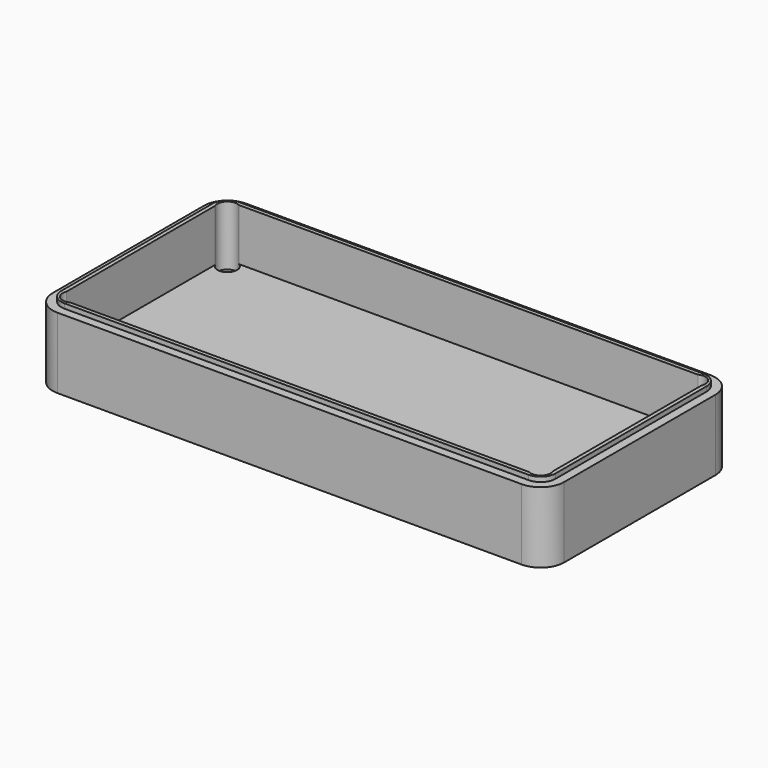
from build123d import *

# Parameters (mm, degrees)
PAD002_DEPTH    = 9
POCKET002_DEPTH = 6
PAD003_DEPTH    = 0.6
SKETCH007_R     = 2
POCKET003_DEPTH = 2
SKETCH008_R     = 1.25
POCKET004_DEPTH = 10
PAD004_DEPTH    = 3


with BuildPart() as part:
    # Sketch004 → Pad002 (new body)
    with BuildSketch(Plane.XY):
        with BuildLine():
            Line((0, 27), (0, 3))
            ThreePointArc((0, 3), (0.87868, 0.87868), (3, 0))
            Line((3, 0), (62, 0))
            ThreePointArc((62, 0), (64.12132, 0.87868), (65, 3))
            Line((65, 3), (65, 27))
            ThreePointArc((65, 27), (64.12132, 29.12132), (62, 30))
            Line((62, 30), (3, 30))
            ThreePointArc((3, 30), (0.87868, 29.12132), (0, 27))
        make_face()
    extrude(amount=PAD002_DEPTH)

    # Sketch005 → Pocket002 (cut)
    with BuildSketch(Plane.XY.offset(9)):
        with BuildLine():
            Line((1.6, 27), (1.6, 3))
            ThreePointArc((1.6, 3), (2.010051, 2.010051), (3, 1.6))
            Line((3, 1.6), (62, 1.6))
            ThreePointArc((62, 1.6), (62.989949, 2.010051), (63.4, 3))
            Line((63.4, 3), (63.4, 27))
            ThreePointArc((63.4, 27), (62.989949, 27.989949), (62, 28.4))
            Line((62, 28.4), (3, 28.4))
            ThreePointArc((3, 28.4), (2.010051, 27.989949), (1.6, 27))
        make_face()
    extrude(amount=-POCKET002_DEPTH, mode=Mode.SUBTRACT)

    # Sketch006 → Pad003 (join)
    with BuildSketch(Plane.XY.offset(9)):
        with BuildLine():
            Line((1.1, 27), (1.1, 3))
            ThreePointArc((1.1, 3), (1.656497, 1.656497), (3, 1.1))
            Line((3, 1.1), (62, 1.1))
            ThreePointArc((62, 1.1), (63.343503, 1.656497), (63.9, 3))
            Line((63.9, 3), (63.9, 27))
            ThreePointArc((63.9, 27), (63.343503, 28.343503), (62, 28.9))
            Line((62, 28.9), (3, 28.9))
            ThreePointArc((3, 28.9), (1.656497, 28.343503), (1.1, 27))
        make_face()
        with BuildLine():
            Line((1.6, 27), (1.6, 3))
            ThreePointArc((1.6, 3), (2.010051, 2.010051), (3, 1.6))
            Line((3, 1.6), (62, 1.6))
            ThreePointArc((62, 1.6), (62.989949, 2.010051), (63.4, 3))
            Line((63.4, 3), (63.4, 27))
            ThreePointArc((63.4, 27), (62.989949, 27.989949), (62, 28.4))
            Line((62, 28.4), (3, 28.4))
            ThreePointArc((3, 28.4), (2.010051, 27.989949), (1.6, 27))
        make_face(mode=Mode.SUBTRACT)
    extrude(amount=PAD003_DEPTH)

    # Sketch007 → Pocket003 (cut)
    with BuildSketch(Plane.XY):
        with Locations((2.75, 27.3)):
            Circle(SKETCH007_R)
        with Locations((62.25, 27.3)):
            Circle(SKETCH007_R)
        with Locations((62.25, 2.7)):
            Circle(SKETCH007_R)
        with Locations((2.75, 2.7)):
            Circle(SKETCH007_R)
    extrude(amount=POCKET003_DEPTH, mode=Mode.SUBTRACT)

    # Sketch008 → Pocket004 (cut)
    with BuildSketch(Plane.XY):
        with Locations((2.75, 27.3)):
            Circle(SKETCH008_R)
        with Locations((62.25, 27.3)):
            Circle(SKETCH008_R)
        with Locations((2.75, 2.7)):
            Circle(SKETCH008_R)
        with Locations((62.25, 2.7)):
            Circle(SKETCH008_R)
    extrude(amount=POCKET004_DEPTH, mode=Mode.SUBTRACT)

    # Sketch009 → Pad004 (join)
    with BuildSketch(Plane.XY):
        with BuildLine():
            ThreePointArc((0, 20.5), (-5.5, 15), (0, 9.5))
            Line((0, 11.5), (0, 9.5))
            ThreePointArc((0, 18.5), (-3.5, 15), (0, 11.5))
            Line((0, 20.5), (0, 18.5))
        make_face()
    extrude(amount=PAD004_DEPTH)


with BuildPart() as part_1:
    # Body001 placement: moved
    add(part.part.moved(Location((0, 0, -9))))


solid = part_1.part
